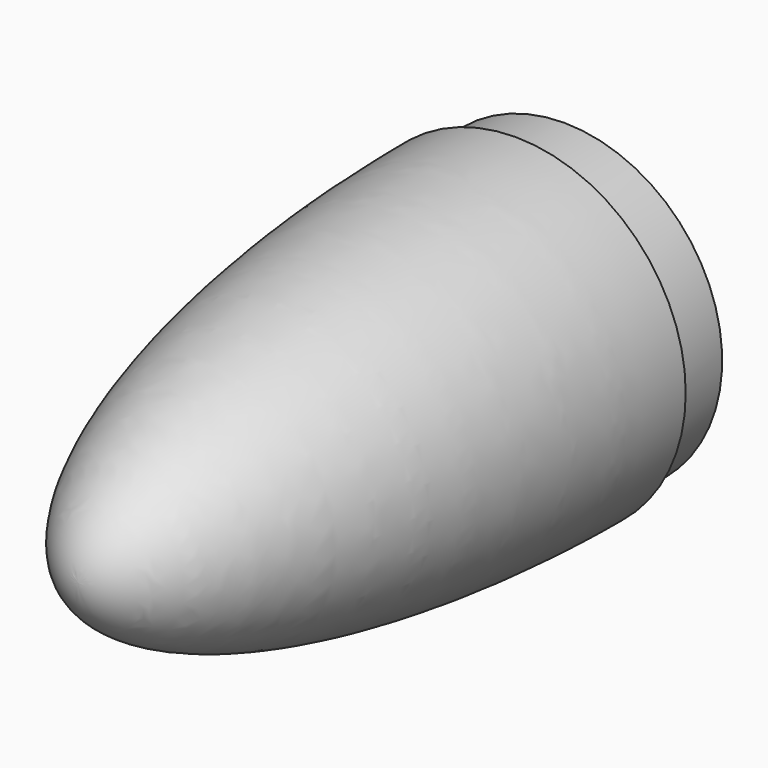
from build123d import *

# Parameters (mm, degrees)
F0_W = 10
F0_H = 26


with BuildPart() as f1:
    # F0 (on Right) → F1 (revolve)
    with BuildSketch(Plane.YZ):
        with BuildLine():
            Line((0, -26), (0, 0))
            Line((0, 0), (-90, 0))
            add(Edge.make_bspline(
                [(-90, 0), (-90, -28), (0, -28)],
                knots=[0, 0, 0, 1.570796, 1.570796, 1.570796], degree=2, weights=[1, 0.707107, 1]))
            Line((0, -28), (0, -26))
        make_face()
        with Locations((5, -13)):
            Rectangle(F0_W, F0_H)
    revolve(axis=Axis((0, -45, 0), (0, -1, 0)))


solid = f1.part
